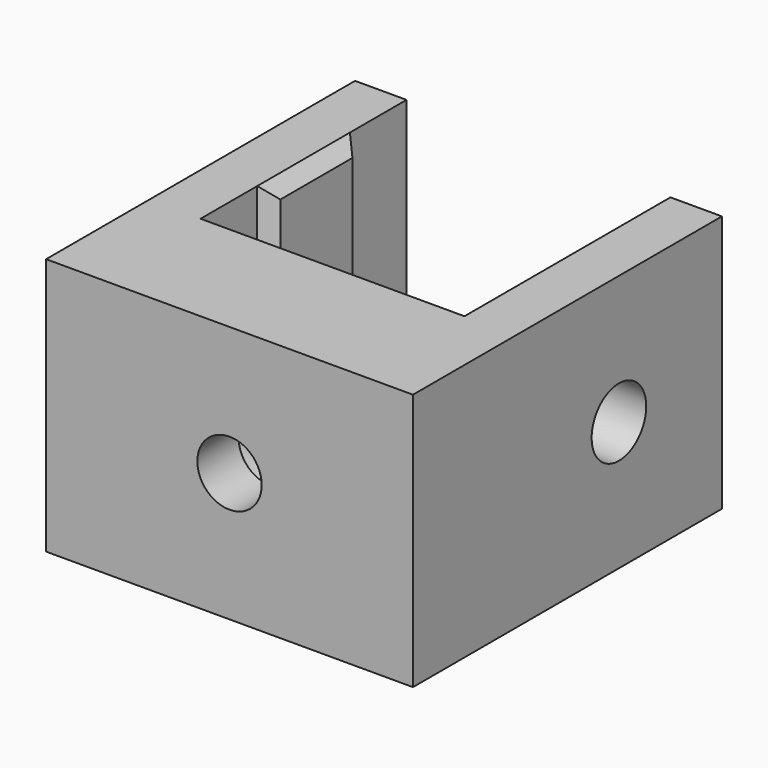
from build123d import *

# Parameters (mm, degrees)
F1_DEPTH  = 20
F2_R      = 2.5
F3_DEPTH  = 30.001
F4_R      = 5
F5_DEPTH  = 6
F7_DEPTH  = 20
F8_SIZE   = 1
F9_R      = 2.65
F10_DEPTH = 28.501


with BuildPart() as f1:
    # F0 (on Top) → F1 (new body)
    with BuildSketch(Plane.XY):
        Polygon((0, 30), (0, 0), (28.5, 0), (28.5, 30), (24.5, 30), (24.5, 10), (4, 10), (4, 30), align=None)
    extrude(amount=F1_DEPTH)

    # F2 (on Front) → F3 (cut, through all)
    with BuildSketch(Plane.XZ):
        with Locations((14.25, 10)):
            Circle(F2_R)
    extrude(amount=-F3_DEPTH, mode=Mode.SUBTRACT)

    # F4 (on face) → F5 (cut)
    with BuildSketch(Plane(origin=(0, 10, 0), x_dir=(-1, 0, 0), z_dir=(0, 1, 0))):
        with Locations((-14.25, 10)):
            Circle(F4_R)
    extrude(amount=-F5_DEPTH, mode=Mode.SUBTRACT)

    # F6 (on Top) → F7 (join, through all)
    with BuildSketch(Plane.XY):
        Polygon((4, 24.5), (4, 15.5), (5, 16.5), (5, 23.5), align=None)
        Polygon((23.5, 16.5), (24.5, 15.5), (24.5, 24.5), (23.5, 23.5), align=None)
    extrude(amount=F7_DEPTH)

    # F8
    f8_edges = [f1.edges().sort_by_distance(p)[0] for p in [
        (5, 20, 20),
        (5, 20, 0),
        (23.5, 20, 20),
        (23.5, 20, 0),
    ]]
    chamfer(f8_edges, length=F8_SIZE)

    # F9 (on Right) → F10 (cut, through all)
    with BuildSketch(Plane.YZ):
        with Locations((20, 10)):
            Circle(F9_R)
    extrude(amount=F10_DEPTH, mode=Mode.SUBTRACT)


solid = f1.part
